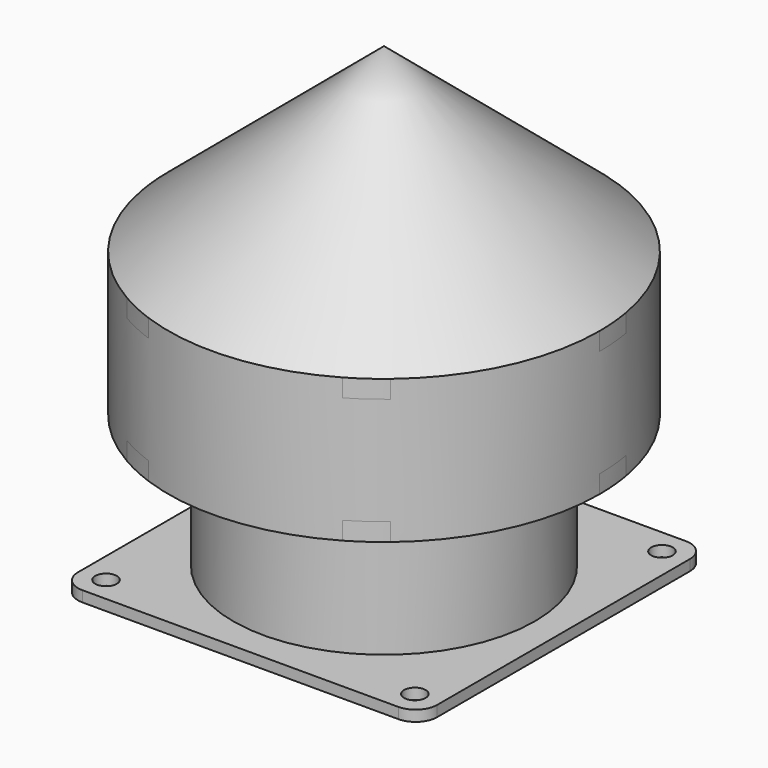
from build123d import *

# Parameters (mm, degrees)
SKETCH006_R           = 40
SKETCH006_R_2         = 38
PAD002_DEPTH          = 50
SKETCH007_R           = 42
SKETCH007_R_2         = 40
PAD003_DEPTH          = 40
SKETCH019_W           = 100
SKETCH019_H           = 100
SKETCH019_R           = 40
PAD010_DEPTH          = 3
FILLET001_R           = 6
SKETCH020_R           = 3
POCKET004_DEPTH       = 3
CHAMFER_SIZE          = 1.9
CHAMFER002_SIZE       = 1.9
REVOLUTION_ANGLE      = 10
POLARPATTERN_COUNT    = 8
SKETCH022_W           = 20
SKETCH022_H           = 5
REVOLUTION004_ANGLE   = 10
POLARPATTERN006_COUNT = 6
SKETCH024_R           = 60
SKETCH024_R_2         = 58
PAD011_DEPTH          = 40
SKETCH030_R           = 40.5
POCKET006_DEPTH       = 30


with BuildPart() as part:
    # Sketch006 → Pad002 (new body)
    with BuildSketch(Plane.XY):
        Circle(SKETCH006_R)
        Circle(SKETCH006_R_2, mode=Mode.SUBTRACT)
    extrude(amount=PAD002_DEPTH)

    # Sketch007 (on Face3 of Pad002) → Pad003 (join)
    with BuildSketch(Plane(origin=(0, 0, 10), x_dir=(1, 0, 0), z_dir=(0, 0, -1))):
        Circle(SKETCH007_R)
        Circle(SKETCH007_R_2, mode=Mode.SUBTRACT)
    extrude(amount=PAD003_DEPTH)

    # Sketch019 (on Face6 of Pad003) → Pad010 (join)
    with BuildSketch(Plane(origin=(0, 0, -30), x_dir=(1, 0, 0), z_dir=(0, 0, -1))):
        Rectangle(SKETCH019_W, SKETCH019_H)
        Circle(SKETCH019_R, mode=Mode.SUBTRACT)
    extrude(amount=-PAD010_DEPTH)

    # Fillet001
    fillet001_edges = [part.edges().sort_by_distance(p)[0] for p in [
        (-50, 50, -28.5),
        (-50, -50, -28.5),
        (50, -50, -28.5),
        (50, 50, -28.5),
    ]]
    fillet(fillet001_edges, radius=FILLET001_R)

    # Sketch020 (on Face11 of Fillet001) → Pocket004 (cut)
    with BuildSketch(Plane(origin=(0, 0, -30), x_dir=(1, 0, 0), z_dir=(0, 0, -1))):
        with Locations((-43, 43)):
            Circle(SKETCH020_R)
        with Locations((43, 43)):
            Circle(SKETCH020_R)
        with Locations((43, -43)):
            Circle(SKETCH020_R)
        with Locations((-43, -43)):
            Circle(SKETCH020_R)
    extrude(amount=-POCKET004_DEPTH, mode=Mode.SUBTRACT)

    # Chamfer
    chamfer_edges = [part.edges().sort_by_distance(p)[0] for p in [
        (-38, 0, 0),
    ]]
    chamfer(chamfer_edges, length=CHAMFER_SIZE)

    # Chamfer002
    chamfer002_edges = [part.edges().sort_by_distance(p)[0] for p in [
        (-42, 0, 10),
    ]]
    chamfer(chamfer002_edges, length=CHAMFER002_SIZE)

    # Sketch021 → Revolution (revolve)
    with BuildSketch(Plane.YZ):
        Polygon((-38, 38.660254), (-38, 30), (-33, 38.660254), align=None)
    revolution = revolve(axis=Axis((0, 0, 0), (0, 0, 1)), revolution_arc=REVOLUTION_ANGLE)

    # PolarPattern: Revolution ×8 about axis
    polarpattern_axis = Axis((0, 0, 0), (0, 0, 1))
    for i in range(1, POLARPATTERN_COUNT):
        add(revolution.rotate(polarpattern_axis, i * 360 / POLARPATTERN_COUNT))

    # Sketch022 → Revolution004 (revolve)
    with BuildSketch(Plane.XZ):
        with Locations((-50, 47.5)):
            Rectangle(SKETCH022_W, SKETCH022_H)
        with Locations((-50, 12.5)):
            Rectangle(SKETCH022_W, SKETCH022_H)
    revolution004 = revolve(axis=Axis((0, 0, 0), (0, 0, 1)), revolution_arc=REVOLUTION004_ANGLE)

    # PolarPattern006: Revolution004 ×6 about axis
    polarpattern006_axis = Axis((0, 0, 0), (0, 0, 1))
    for i in range(1, POLARPATTERN006_COUNT):
        add(revolution004.rotate(polarpattern006_axis, i * 360 / POLARPATTERN006_COUNT))

    # Sketch023 → Revolution005 (revolve)
    with BuildSketch(Plane.XZ):
        Polygon((-60, 50), (0, 100.345978), (0, 98.667779), (-58, 50), align=None)
    revolve(axis=Axis((0, 0, 0), (0, 0, 1)))

    # Sketch024 (on Face68 of Revolution005) → Pad011 (join)
    with BuildSketch(Plane(origin=(0, 0, 50), x_dir=(1, 0, 0), z_dir=(0, 0, -1))):
        Circle(SKETCH024_R)
        Circle(SKETCH024_R_2, mode=Mode.SUBTRACT)
    extrude(amount=PAD011_DEPTH)

    # Sketch030 (on Face135 of Pad011) → Pocket006 (cut)
    with BuildSketch(Plane(origin=(0, 0, -30), x_dir=(1, 0, 0), z_dir=(0, 0, -1))):
        Circle(SKETCH030_R)
    extrude(amount=-POCKET006_DEPTH, mode=Mode.SUBTRACT)


with BuildPart() as part_1:
    # Body001 placement: moved
    add(part.part.moved(Location((0, 0, 40))))


solid = part_1.part
